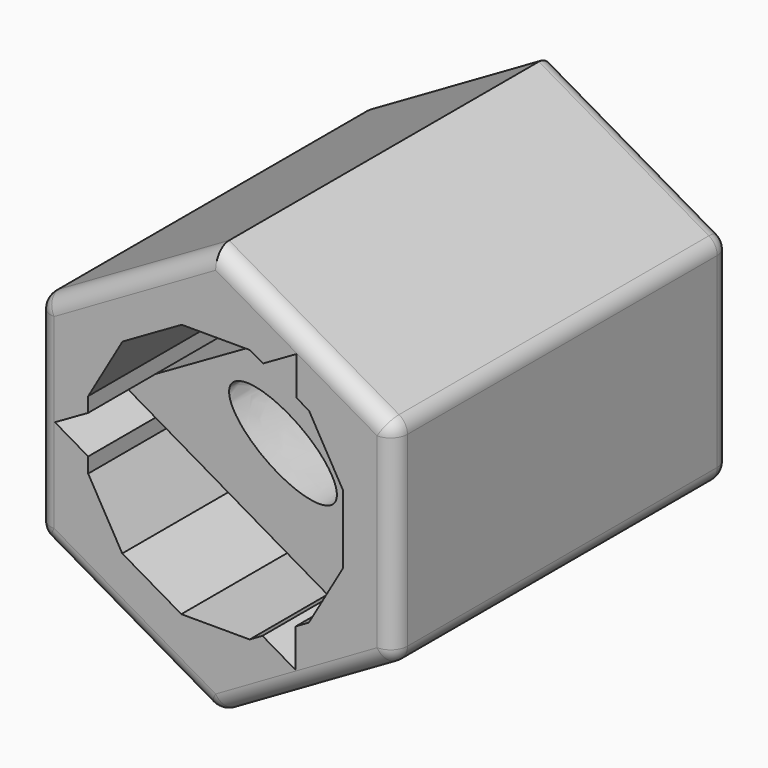
from build123d import *

# Parameters (mm, degrees)
F1_DEPTH = 63.5
F2_DEPTH = 38.1
F0_R     = 7.8704137821
F0_R_2   = 3.9561577287
F3_DEPTH = 19.05
F4_DEPTH = 19.05
F5_R     = 5.08


with BuildPart() as f1:
    # F0 (on Front) → F1 (new body, symmetric)
    with BuildSketch(Plane.XZ):
        Polygon((-53.8160167634, 31.0706917651), (-53.8160167634, -31.0706917651), (0, -62.1413835302), (53.8160167634, -31.0706917651), (53.8160167634, 31.0706917651), (0, 62.1413835302), align=None)
        Polygon((-38.4452722254, 10.3533287005), (-28.1179180524, 28.188881781), (-10.2563904444, 38.4712467528), (10.3533287005, 38.4452722254), (14.2997728233, 36.16015519), (24.3612338289, 41.932971005), (24.3299605233, 30.352356557), (28.188881781, 28.1179180524), (38.4712467528, 10.2563904444), (38.4452722254, -10.3533287005), (28.1179180524, -28.188881781), (24.1657265876, -30.4640441283), (24.134401232, -42.0639328659), (14.1209315815, -36.2465421647), (10.2563904444, -38.4712467528), (-10.3533287005, -38.4452722254), (-28.188881781, -28.1179180524), (-38.4712467528, -10.2563904444), (-38.4654994109, -5.6961110617), (-48.4956350609, 0.1309618609), (-38.4508921047, 5.8941856077), align=None, mode=Mode.SUBTRACT)
    extrude(amount=F1_DEPTH, both=True)

    # F0 (on Front) → F2 (join, symmetric)
    with BuildSketch(Plane.XZ):
        Polygon((24.3612338289, 41.932971005), (14.2997728233, 36.16015519), (24.3299605233, 30.352356557), align=None)
        Polygon((-38.4654994109, -5.6961110617), (-38.4508921047, 5.8941856077), (-48.4956350609, 0.1309618609), align=None)
        Polygon((24.1657265876, -30.4640441283), (14.1209315815, -36.2465421647), (24.134401232, -42.0639328659), align=None)
        Polygon((14.2997728233, 36.16015519), (-38.4508921047, 5.8941856077), (-38.4654994109, -5.6961110617), (14.1209315815, -36.2465421647), (24.1657265876, -30.4640441283), (24.3299605233, 30.352356557), align=None)
        with BuildLine():
            add(Edge.make_bspline(
                [(-15.6271792948, 10.6756715104), (-23.4198652546, -0.7313580674), (3.9172466675, -11.0413505441), (31.2543585896, -21.3513430208), (11.7099326273, 0.3656790337), (-7.834493335, 22.0827010882), (-15.6271792948, 10.6756715104)],
                knots=[0, 0, 0, 2.0943951024, 2.0943951024, 4.1887902048, 4.1887902048, 6.2831853072, 6.2831853072, 6.2831853072], degree=2, weights=[1, 0.5, 1, 0.5, 1, 0.5, 1]))
        make_face(mode=Mode.SUBTRACT)
    extrude(amount=F2_DEPTH, both=True)

    # F5
    f5_edges = [f1.edges().sort_by_distance(p)[0] for p in [
        (53.816017, 0, 31.070692),
        (53.816017, 0, -31.070692),
        (0, 0, -62.141384),
        (-53.816017, 0, -31.070692),
        (-53.816017, 0, 31.070692),
        (-26.908008, -63.5, 46.606038),
        (-53.816017, -63.5, 0),
        (-26.908008, -63.5, -46.606038),
        (26.908008, -63.5, -46.606038),
        (53.816017, -63.5, 0),
        (26.908008, -63.5, 46.606038),
        (26.908008, 63.5, 46.606038),
        (-26.908008, 63.5, 46.606038),
        (53.816017, 63.5, 0),
        (26.908008, 63.5, -46.606038),
        (-26.908008, 63.5, -46.606038),
        (-53.816017, 63.5, 0),
    ]]
    fillet(f5_edges, radius=F5_R)


with BuildPart() as f3:
    # F0 (on Front) → F3 (new body, symmetric)
    with BuildSketch(Plane.XZ):
        Circle(F0_R)
        Circle(F0_R_2, mode=Mode.SUBTRACT)
    extrude(amount=F3_DEPTH, both=True)

    # F0 (on Front) → F4 (join)
    with BuildSketch(Plane.XZ):
        Circle(F0_R_2)
    extrude(amount=F4_DEPTH)


solid = Compound([f1.part, f3.part])
